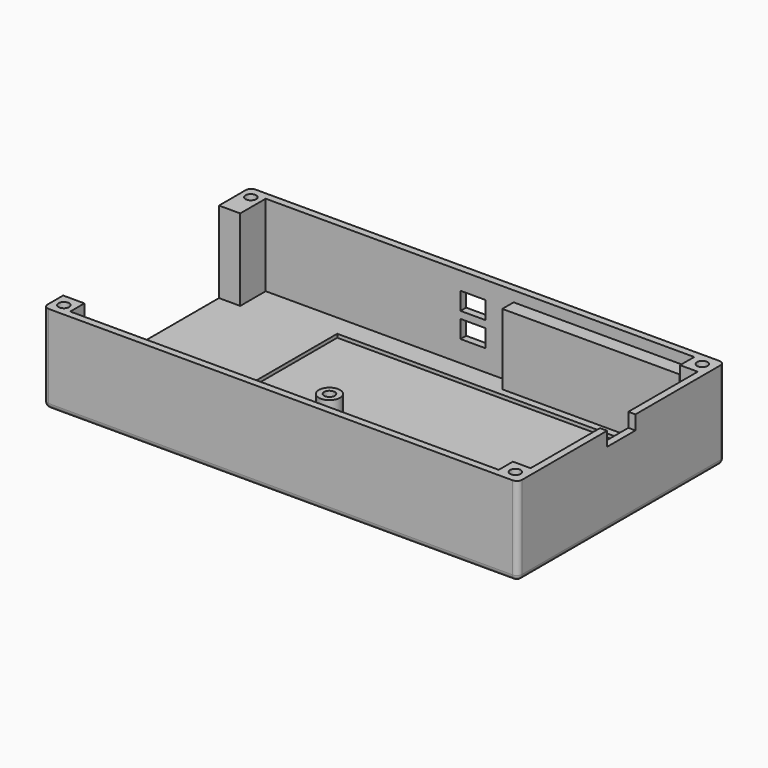
from build123d import *

# Parameters (mm, degrees)
BOX_W             = 134
BOX_H             = 73
BOX_DEPTH         = 25
BOX001_W          = 126
BOX001_H          = 69
BOX001_DEPTH      = 23
BOX002_W          = 10
BOX002_H          = 55
BOX002_DEPTH      = 23
BOX003_W          = 100
BOX003_H          = 30
BOX003_DEPTH      = 1
CYLINDER_R        = 1
CYLINDER_DEPTH    = 5
CYLINDER001_R     = 1
CYLINDER001_DEPTH = 5
CYLINDER002_R     = 3
CYLINDER002_DEPTH = 7
CYLINDER003_R     = 1.5
CYLINDER003_DEPTH = 6
CYLINDER004_R     = 3
CYLINDER004_DEPTH = 7
CYLINDER005_R     = 1.5
CYLINDER005_DEPTH = 6
BOX004_W          = 7
BOX004_H          = 5
BOX004_DEPTH      = 7
BOX005_W          = 7
BOX005_H          = 5
BOX005_DEPTH      = 5
BOX006_W          = 50
BOX006_H          = 20
BOX006_DEPTH      = 4
BOX007_W          = 4
BOX007_H          = 10
BOX007_DEPTH      = 2
CYLINDER006_R     = 1.5
CYLINDER006_DEPTH = 5
CYLINDER007_R     = 1.5
CYLINDER007_DEPTH = 5
BOX008_W          = 5
BOX008_H          = 5
BOX008_DEPTH      = 10
BOX009_W          = 5
BOX009_H          = 5
BOX009_DEPTH      = 10
CYLINDER008_R     = 1.5
CYLINDER008_DEPTH = 5
CYLINDER009_R     = 1.5
CYLINDER009_DEPTH = 5
FILLET_R          = 1.5
FILLET001_R       = 1.5
FILLET002_R       = 1.5
FILLET003_R       = 1.5
CYLINDER010_R     = 6
CYLINDER010_DEPTH = 0.1
CYLINDER011_R     = 6
CYLINDER011_DEPTH = 0.1
BOX010_W          = 12
BOX010_H          = 6
BOX010_DEPTH      = 0.1
CYLINDER012_R     = 5
CYLINDER012_DEPTH = 0.1
CYLINDER013_R     = 8
CYLINDER013_DEPTH = 0.1
CYLINDER014_R     = 5
CYLINDER014_DEPTH = 0.1
CYLINDER015_R     = 6
CYLINDER015_DEPTH = 0.1
CYLINDER016_R     = 5
CYLINDER016_DEPTH = 0.1
PRISM_DEPTH       = 0.1


with BuildPart() as part:
    # Box → Box (join)
    with BuildSketch(Plane.XY):
        with Locations((67, 36.5)):
            Rectangle(BOX_W, BOX_H)
    extrude(amount=BOX_DEPTH)

    # Box001 → Box001 (cut)
    with BuildSketch(Plane(origin=(6, 2, 2), x_dir=(1, 0, 0), z_dir=(0, 0, 1))):
        with Locations((63, 34.5)):
            Rectangle(BOX001_W, BOX001_H)
    extrude(amount=BOX001_DEPTH, mode=Mode.SUBTRACT)

    # Box002 → Box002 (cut)
    with BuildSketch(Plane(origin=(-2, 7, 2), x_dir=(1, 0, 0), z_dir=(0, 0, 1))):
        with Locations((5, 27.5)):
            Rectangle(BOX002_W, BOX002_H)
    extrude(amount=BOX002_DEPTH, mode=Mode.SUBTRACT)

    # Box003 → Box003 (cut)
    with BuildSketch(Plane(origin=(31, 35, 1), x_dir=(1, 0, 0), z_dir=(0, 0, 1))):
        with Locations((50, 15)):
            Rectangle(BOX003_W, BOX003_H)
    extrude(amount=BOX003_DEPTH, mode=Mode.SUBTRACT)

    # Cylinder → Cylinder (join)
    with BuildSketch(Plane(origin=(129, 37, 1), x_dir=(1, 0, 0), z_dir=(0, 0, 1))):
        Circle(CYLINDER_R)
    extrude(amount=CYLINDER_DEPTH)

    # Cylinder001 → Cylinder001 (join)
    with BuildSketch(Plane(origin=(129, 63, 1), x_dir=(1, 0, 0), z_dir=(0, 0, 1))):
        Circle(CYLINDER001_R)
    extrude(amount=CYLINDER001_DEPTH)

    # Cylinder002 → Cylinder002 (join)
    with BuildSketch(Plane(origin=(114, 31, 1), x_dir=(1, 0, 0), z_dir=(0, 0, 1))):
        Circle(CYLINDER002_R)
    extrude(amount=CYLINDER002_DEPTH)

    # Cylinder003 → Cylinder003 (cut)
    with BuildSketch(Plane(origin=(114, 31, 3), x_dir=(1, 0, 0), z_dir=(0, 0, 1))):
        Circle(CYLINDER003_R)
    extrude(amount=CYLINDER003_DEPTH, mode=Mode.SUBTRACT)

    # Cylinder004 → Cylinder004 (join)
    with BuildSketch(Plane(origin=(56, 31, 2), x_dir=(1, 0, 0), z_dir=(0, 0, 1))):
        Circle(CYLINDER004_R)
    extrude(amount=CYLINDER004_DEPTH)

    # Cylinder005 → Cylinder005 (cut)
    with BuildSketch(Plane(origin=(56, 31, 3), x_dir=(1, 0, 0), z_dir=(0, 0, 1))):
        Circle(CYLINDER005_R)
    extrude(amount=CYLINDER005_DEPTH, mode=Mode.SUBTRACT)

    # Box004 → Box004 (cut)
    with BuildSketch(Plane(origin=(61, 74, 8), x_dir=(1, 0, 0), z_dir=(0, -1, 0))):
        with Locations((3.5, 2.5)):
            Rectangle(BOX004_W, BOX004_H)
    extrude(amount=BOX004_DEPTH, mode=Mode.SUBTRACT)

    # Box005 → Box005 (cut)
    with BuildSketch(Plane(origin=(61, 74, 15), x_dir=(1, 0, 0), z_dir=(0, -1, 0))):
        with Locations((3.5, 2.5)):
            Rectangle(BOX005_W, BOX005_H)
    extrude(amount=BOX005_DEPTH, mode=Mode.SUBTRACT)

    # Box006 → Box006 (join)
    with BuildSketch(Plane(origin=(76, 71, 2), x_dir=(1, 0, 0), z_dir=(0, -1, 0))):
        with Locations((25, 10)):
            Rectangle(BOX006_W, BOX006_H)
    extrude(amount=BOX006_DEPTH)

    # Box007 → Box007 (cut)
    with BuildSketch(Plane(origin=(134, 41.5, 25), x_dir=(0, 0, -1), z_dir=(-1, 0, 0))):
        with Locations((2, 5)):
            Rectangle(BOX007_W, BOX007_H)
    extrude(amount=BOX007_DEPTH, mode=Mode.SUBTRACT)

    # Cylinder006 → Cylinder006 (cut)
    with BuildSketch(Plane(origin=(3, 3.5, 20), x_dir=(0, 1, 0), z_dir=(0, 0, 1))):
        Circle(CYLINDER006_R)
    extrude(amount=CYLINDER006_DEPTH, mode=Mode.SUBTRACT)

    # Cylinder007 → Cylinder007 (cut)
    with BuildSketch(Plane(origin=(3, 69.5, 20), x_dir=(0, 1, 0), z_dir=(0, 0, 1))):
        Circle(CYLINDER007_R)
    extrude(amount=CYLINDER007_DEPTH, mode=Mode.SUBTRACT)

    # Box008 → Box008 (join)
    with BuildSketch(Plane(origin=(132, 2, 15), x_dir=(0, 1, 0), z_dir=(0, 0, 1))):
        with Locations((2.5, 2.5)):
            Rectangle(BOX008_W, BOX008_H)
    extrude(amount=BOX008_DEPTH)

    # Box009 → Box009 (join)
    with BuildSketch(Plane(origin=(132, 66, 15), x_dir=(0, 1, 0), z_dir=(0, 0, 1))):
        with Locations((2.5, 2.5)):
            Rectangle(BOX009_W, BOX009_H)
    extrude(amount=BOX009_DEPTH)

    # Cylinder008 → Cylinder008 (cut)
    with BuildSketch(Plane(origin=(130.5, 69.5, 20), x_dir=(0, 1, 0), z_dir=(0, 0, 1))):
        Circle(CYLINDER008_R)
    extrude(amount=CYLINDER008_DEPTH, mode=Mode.SUBTRACT)

    # Cylinder009 → Cylinder009 (cut)
    with BuildSketch(Plane(origin=(130.5, 3.5, 20), x_dir=(0, 1, 0), z_dir=(0, 0, 1))):
        Circle(CYLINDER009_R)
    extrude(amount=CYLINDER009_DEPTH, mode=Mode.SUBTRACT)

    # Fillet
    fillet_edges = [part.edges().sort_by_distance(p)[0] for p in [
        (134, 0, 12.5),
    ]]
    fillet(fillet_edges, radius=FILLET_R)

    # Fillet001
    fillet001_edges = [part.edges().sort_by_distance(p)[0] for p in [
        (66.25, 0, 0),
    ]]
    fillet(fillet001_edges, radius=FILLET001_R)

    # Fillet002
    fillet002_edges = [part.edges().sort_by_distance(p)[0] for p in [
        (134, 73, 13.25),
    ]]
    fillet(fillet002_edges, radius=FILLET002_R)

    # Fillet003
    fillet003_edges = [part.edges().sort_by_distance(p)[0] for p in [
        (0, 36.5, 0),
    ]]
    fillet(fillet003_edges, radius=FILLET003_R)

    # Cylinder010 → Cylinder010 (cut)
    with BuildSketch(Plane(origin=(90.5, 13.5, 1.9), x_dir=(0, 1, 0), z_dir=(0, 0, 1))):
        Circle(CYLINDER010_R)
    extrude(amount=CYLINDER010_DEPTH, mode=Mode.SUBTRACT)

    # Cylinder011 → Cylinder011 (cut)
    with BuildSketch(Plane(origin=(85.5, 13.5, 1.9), x_dir=(0, 1, 0), z_dir=(0, 0, 1))):
        Circle(CYLINDER011_R)
    extrude(amount=CYLINDER011_DEPTH, mode=Mode.SUBTRACT)

    # Box010 → Box010 (cut)
    with BuildSketch(Plane(origin=(91, 7.5, 1.9), x_dir=(0, 1, 0), z_dir=(0, 0, 1))):
        with Locations((6, 3)):
            Rectangle(BOX010_W, BOX010_H)
    extrude(amount=BOX010_DEPTH, mode=Mode.SUBTRACT)

    # Cylinder012 → Cylinder012 (cut)
    with BuildSketch(Plane(origin=(86, 23.5, 1.9), x_dir=(0, 1, 0), z_dir=(0, 0, 1))):
        Circle(CYLINDER012_R)
    extrude(amount=CYLINDER012_DEPTH, mode=Mode.SUBTRACT)

    # Cylinder013 → Cylinder013 (cut)
    with BuildSketch(Plane(origin=(90.5, 15.5, 1.9), x_dir=(0, 1, 0), z_dir=(0, 0, 1))):
        Circle(CYLINDER013_R)
    extrude(amount=CYLINDER013_DEPTH, mode=Mode.SUBTRACT)

    # Cylinder014 → Cylinder014 (join)
    with BuildSketch(Plane(origin=(93.5, 19.5, 1.9), x_dir=(0, 1, 0), z_dir=(0, 0, 1))):
        Circle(CYLINDER014_R)
    extrude(amount=CYLINDER014_DEPTH)

    # Cylinder015 → Cylinder015 (cut)
    with BuildSketch(Plane(origin=(89.5, 13.5, 1.9), x_dir=(0, 1, 0), z_dir=(0, 0, 1))):
        Circle(CYLINDER015_R)
    extrude(amount=CYLINDER015_DEPTH, mode=Mode.SUBTRACT)

    # Cylinder016 → Cylinder016 (cut)
    with BuildSketch(Plane(origin=(86, 23.5, 1.9), x_dir=(0, 1, 0), z_dir=(0, 0, 1))):
        Circle(CYLINDER016_R)
    extrude(amount=CYLINDER016_DEPTH, mode=Mode.SUBTRACT)

    # Prism → Prism (cut)
    with BuildSketch(Plane(origin=(80.5, 22.5, 1.9), x_dir=(0.34202, 0.939693, 0), z_dir=(0, 0, 1))):
        Polygon((3, 0), (-1.5, 2.598076), (-1.5, -2.598076), align=None)
    extrude(amount=PRISM_DEPTH, mode=Mode.SUBTRACT)


solid = part.part
